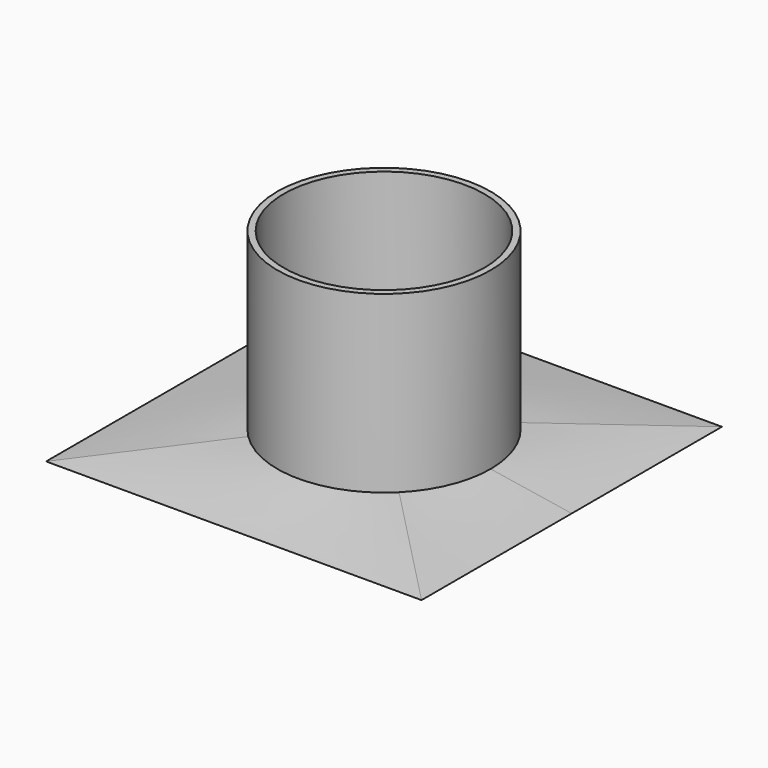
from build123d import *

# Parameters (mm, degrees)
F0_R     = 44
F1_DEPTH = 3
F3_W     = 25
F3_H     = 41
F6_R     = 25
F5_W     = 88
F5_H     = 88
F8_R     = 23.5
F9_DEPTH = 41


with BuildPart() as f1:
    # F0 (on Top) → F1 (new body)
    with BuildSketch(Plane.XY):
        Circle(F0_R)
    extrude(amount=F1_DEPTH)


with BuildPart() as f4:
    # F3 (on Front) → F4 (revolve)
    with BuildSketch(Plane.XZ):
        with Locations((12.5, 23.5)):
            Rectangle(F3_W, F3_H)
    revolve(axis=Axis((0, 0, 22), (0, 0, 1)))

    # F6 (on face) → F7 section 0
    with BuildSketch(Plane(origin=(0, 0, 3), x_dir=(1, 0, 0), z_dir=(0, 0, -1))):
        Circle(F6_R)
    # F5 (on Top) → F7 section 1
    with BuildSketch(Plane.XY):
        Rectangle(F5_W, F5_H)
    loft()

    # F8 (on face) → F9 (cut)
    with BuildSketch(Plane.XY.offset(44)):
        Circle(F8_R)
    extrude(amount=-F9_DEPTH, mode=Mode.SUBTRACT)


solid = f4.part
